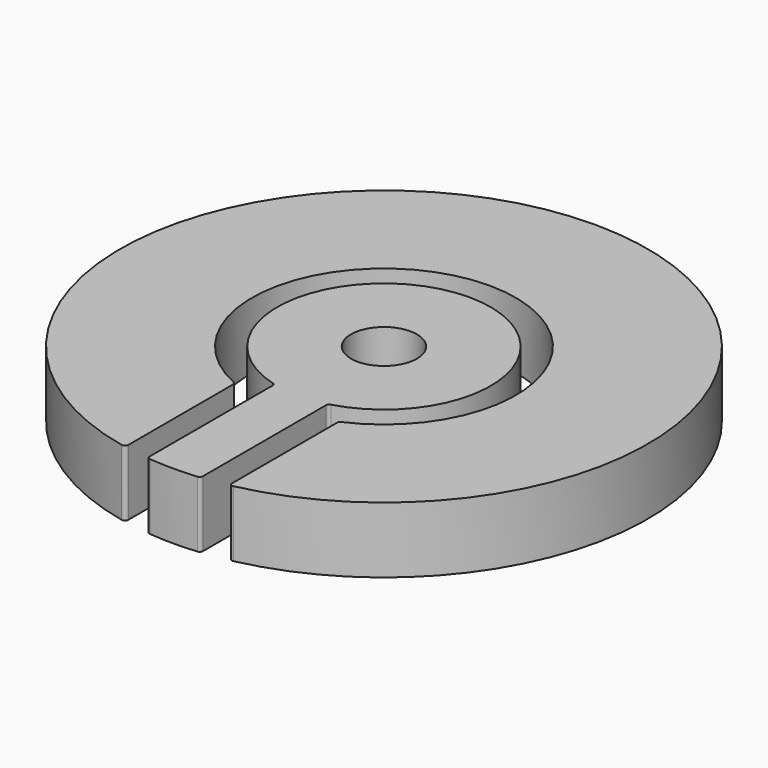
from build123d import *

# Parameters (mm, degrees)
F0_R     = 0.5
F1_DEPTH = 1


with BuildPart() as f1:
    # F0 (on Top) → F1 (new body)
    with BuildSketch(Plane.XY):
        with BuildLine():
            ThreePointArc((-0.816073, -1.825931), (0, 2), (0.816073, -1.825931))
            ThreePointArc((0.816073, -1.825931), (0.794522, -1.844378), (0.786475, -1.87158))
            Line((0.786475, -1.87158), (0.786475, -3.860416))
            ThreePointArc((0.786475, -3.860416), (0.805085, -3.899335), (0.847063, -3.909282))
            ThreePointArc((0.847063, -3.909282), (0, 4), (-0.847063, -3.909282))
            ThreePointArc((-0.847063, -3.909282), (-0.805085, -3.899335), (-0.786475, -3.860416))
            Line((-0.786475, -3.860416), (-0.786475, -1.87158))
            ThreePointArc((-0.786475, -1.87158), (-0.794522, -1.844378), (-0.816073, -1.825931))
        make_face()
        with BuildLine():
            ThreePointArc((0.404508, -1.604917), (0.414626, -1.574761), (0.440884, -1.556809))
            ThreePointArc((0.440884, -1.556809), (0, 1.618034), (-0.440884, -1.556809))
            ThreePointArc((-0.440884, -1.556809), (-0.414626, -1.574761), (-0.404508, -1.604917))
            Line((-0.404508, -1.604917), (-0.404508, -3.934059))
            ThreePointArc((-0.404508, -3.934059), (-0.391416, -3.967791), (-0.358996, -3.983858))
            ThreePointArc((-0.358996, -3.983858), (0, -4), (0.358996, -3.983858))
            ThreePointArc((0.358996, -3.983858), (0.391416, -3.967791), (0.404508, -3.934059))
            Line((0.404508, -3.934059), (0.404508, -1.604917))
        make_face()
        Circle(F0_R, mode=Mode.SUBTRACT)
    extrude(amount=F1_DEPTH)


solid = f1.part
